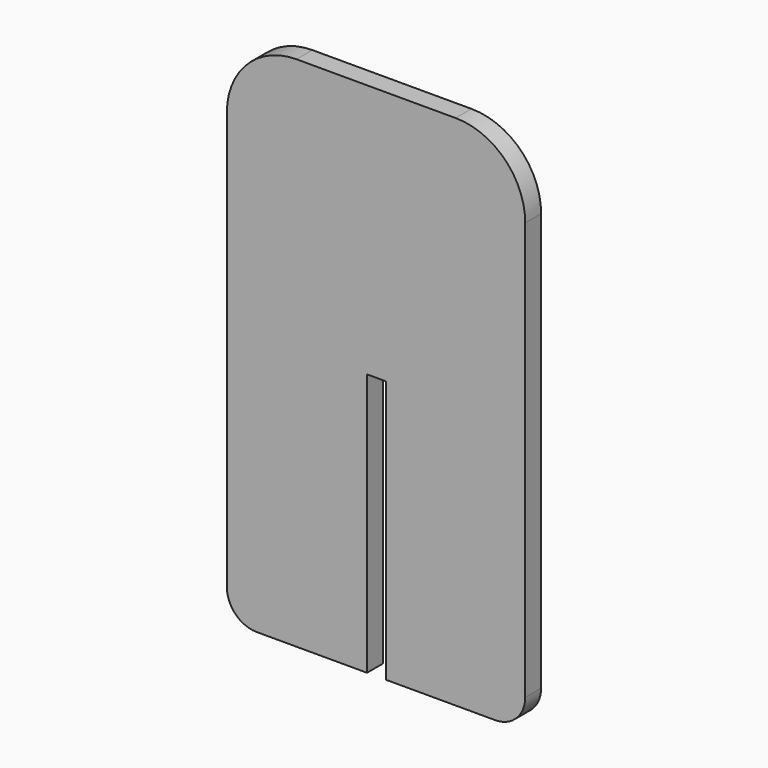
from build123d import *

# Parameters (mm, degrees)
F1_DEPTH = 6.35


with BuildPart() as f1:
    # F0 (on Front) → F1 (new body)
    with BuildSketch(Plane.XZ):
        with BuildLine():
            Line((3.175, -82.55), (38.1, -82.55))
            ThreePointArc((38.1, -82.55), (44.835192, -79.760192), (47.625, -73.025))
            Line((47.625, -73.025), (47.625, 60.325))
            ThreePointArc((47.625, 60.325), (41.115448, 76.040448), (25.4, 82.55))
            Line((25.4, 82.55), (3.175, 82.55))
            Line((3.175, 82.55), (-2.881412, 82.55))
            Line((-2.881412, 82.55), (-25.4, 82.55))
            ThreePointArc((-25.4, 82.55), (-41.115448, 76.040448), (-47.625, 60.325))
            Line((-47.625, 60.325), (-47.625, -73.025))
            ThreePointArc((-47.625, -73.025), (-44.835192, -79.760192), (-38.1, -82.55))
            Line((-38.1, -82.55), (-2.881412, -82.55))
            Line((-2.881412, -82.55), (-2.881412, 1.333451))
            Line((-2.881412, 1.333451), (3.175, 1.3208))
            Line((3.175, 1.3208), (3.175, -82.55))
        make_face()
    extrude(amount=F1_DEPTH)


solid = f1.part
